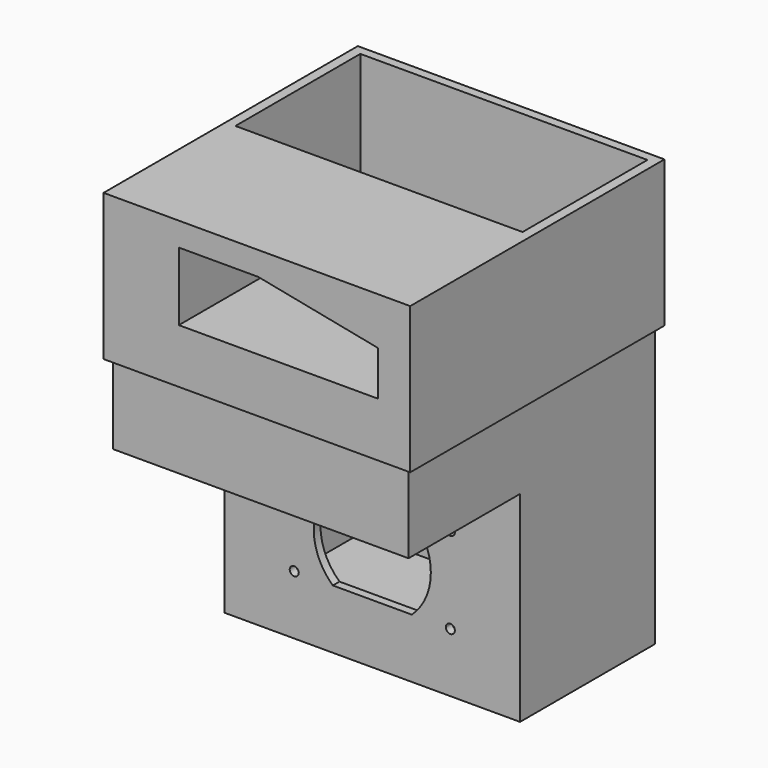
from build123d import *

# Parameters (mm, degrees)
F0_W      = 212
F0_H      = 221
F1_DEPTH  = 201
F2_W      = 206
F2_H      = 112
F3_DEPTH  = 198
F4_W      = 212
F4_H      = 144
F5_DEPTH  = 100
F2_H_2    = 3
F6_DEPTH  = 54
F2_H_3    = 100
F7_DEPTH  = 54
F9_DEPTH  = 6
F11_START = 198
F10_W     = 220
F10_H     = 228
F10_W_2   = 206
F10_H_2   = 112
F11_DEPTH = 105
F14_DEPTH = 109.5


with BuildPart() as f1:
    # F0 (on Top) → F1 (new body)
    with BuildSketch(Plane.XY):
        Rectangle(F0_W, F0_H)
    extrude(amount=F1_DEPTH)

    # F2 (on face) → F3 (cut)
    with BuildSketch(Plane.XY.offset(201)):
        with Locations((0, 51.5)):
            Rectangle(F2_W, F2_H)
    extrude(amount=-F3_DEPTH, mode=Mode.SUBTRACT)

    # F4 (on face) → F5 (cut)
    with BuildSketch(Plane.XZ.offset(110.5)):
        with Locations((0, 72)):
            Rectangle(F4_W, F4_H)
    extrude(amount=-F5_DEPTH, mode=Mode.SUBTRACT)

    # F2 (on face) → F6 (cut)
    with BuildSketch(Plane.XY.offset(201)):
        with Locations((0, -6)):
            Rectangle(F2_W, F2_H_2)
    extrude(amount=-F6_DEPTH, mode=Mode.SUBTRACT)

    # F2 (on face) → F7 (cut)
    with BuildSketch(Plane.XY.offset(201)):
        with Locations((0, -57.5)):
            Rectangle(F2_W, F2_H_3)
    extrude(amount=-F7_DEPTH, mode=Mode.SUBTRACT)

    # F8 (on face) → F9 (cut, through all)
    with BuildSketch(Plane.XZ.offset(10.5)):
        with BuildLine():
            Line((-28.3372546306, 42.5), (28.3372546306, 42.5))
            ThreePointArc((28.3372546306, 42.5), (42, 73.5), (28.3372546306, 104.5))
            Line((28.3372546306, 104.5), (-28.3372546306, 104.5))
            ThreePointArc((-28.3372546306, 104.5), (-42, 73.5), (-28.3372546306, 42.5))
        make_face()
        with BuildLine():
            Line((56, 104.5), (56, 101.25))
            ThreePointArc((56, 101.25), (58.2980970389, 102.2019029611), (59.25, 104.5))
            ThreePointArc((59.25, 104.5), (56, 107.75), (52.75, 104.5))
            Line((52.75, 104.5), (56, 104.5))
        make_face()
        with BuildLine():
            ThreePointArc((52.75, 104.5), (53.7019029611, 102.2019029611), (56, 101.25))
            Line((56, 101.25), (56, 104.5))
            Line((56, 104.5), (52.75, 104.5))
        make_face()
        with BuildLine():
            ThreePointArc((56, 45.75), (53.7019029611, 44.7980970389), (52.75, 42.5))
            Line((52.75, 42.5), (56, 42.5))
            Line((56, 42.5), (56, 45.75))
        make_face()
        with BuildLine():
            Line((56, 42.5), (52.75, 42.5))
            ThreePointArc((52.75, 42.5), (56, 39.25), (59.25, 42.5))
            ThreePointArc((59.25, 42.5), (58.2980970389, 44.7980970389), (56, 45.75))
            Line((56, 45.75), (56, 42.5))
        make_face()
        with BuildLine():
            ThreePointArc((-56, 45.75), (-58.2980970389, 40.2019029611), (-52.75, 42.5))
            Line((-52.75, 42.5), (-56, 42.5))
            Line((-56, 42.5), (-56, 45.75))
        make_face()
        with BuildLine():
            Line((-56, 42.5), (-52.75, 42.5))
            ThreePointArc((-52.75, 42.5), (-53.7019029611, 44.7980970389), (-56, 45.75))
            Line((-56, 45.75), (-56, 42.5))
        make_face()
        with BuildLine():
            Line((-56, 104.5), (-56, 101.25))
            ThreePointArc((-56, 101.25), (-53.7019029611, 102.2019029611), (-52.75, 104.5))
            Line((-52.75, 104.5), (-56, 104.5))
        make_face()
        with BuildLine():
            ThreePointArc((-52.75, 104.5), (-58.2980970389, 106.7980970389), (-56, 101.25))
            Line((-56, 101.25), (-56, 104.5))
            Line((-56, 104.5), (-52.75, 104.5))
        make_face()
    extrude(amount=-F9_DEPTH, mode=Mode.SUBTRACT)

    # F10 (on face) → F11 (join)
    with BuildSketch(Plane.XY.offset(3).offset(F11_START)):
        Rectangle(F10_W, F10_H)
        with Locations((0, 51.5)):
            Rectangle(F10_W_2, F10_H_2, mode=Mode.SUBTRACT)
    extrude(amount=F11_DEPTH)

    # F13 (on face) → F14 (cut, through all)
    with BuildSketch(Plane.XZ.offset(114)):
        Polygon((1, 289), (-56, 289), (-56, 240), (87, 240), (87, 272), align=None)
    extrude(amount=-F14_DEPTH, mode=Mode.SUBTRACT)


solid = f1.part
